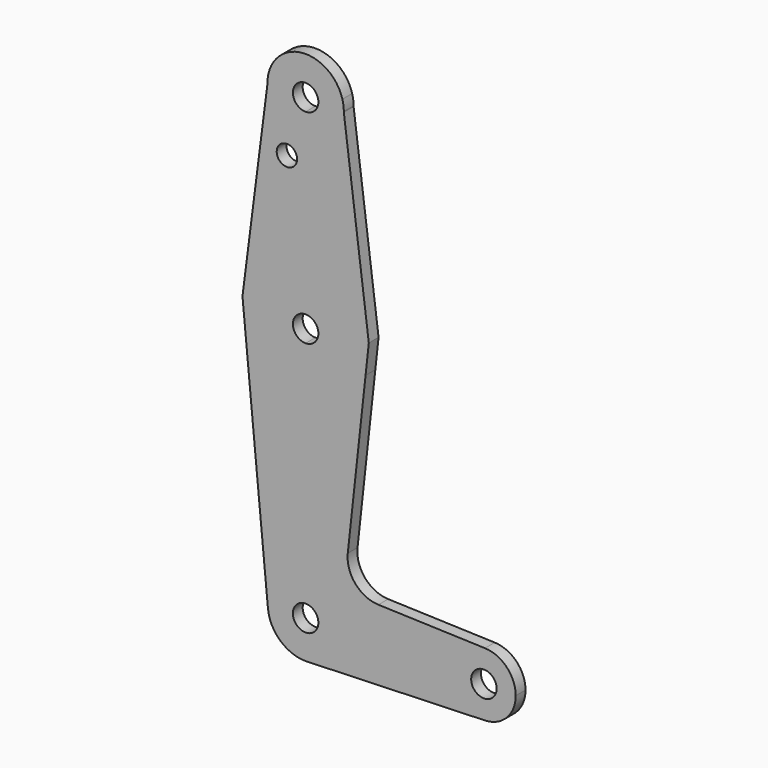
from build123d import *

# Parameters (mm, degrees)
F0_R     = 2.54
F1_DEPTH = 3.048


with BuildPart() as f1:
    # F0 (on Front) → F1 (new body)
    with BuildSketch(Plane.XZ):
        with BuildLine():
            ThreePointArc((-42.1443581445, 65.6977605384), (-39.2914232505, 59.08092793), (-32.6211089313, 56.3553787816))
            ThreePointArc((-32.6211089313, 56.3553787816), (-25.9507946121, 59.08092793), (-23.0978597181, 65.6977605384))
            Line((-23.0978597181, 65.6977605384), (-23.4511180552, 68.456595452))
            ThreePointArc((-23.4511180552, 68.456595452), (-34.0117887591, 75.3033100992), (-42.1443581445, 65.6977605384))
        make_face()
        with BuildLine():
            ThreePointArc((-29.4461089313, 65.8803787816), (-30.376044901, 63.6353147513), (-32.6211089313, 62.7053787816))
            ThreePointArc((-32.6211089313, 62.7053787816), (-34.8661729616, 68.1254428119), (-29.4461089313, 65.8803787816))
        make_face(mode=Mode.SUBTRACT)
        with BuildLine():
            ThreePointArc((-23.0978597181, 65.6977605384), (-25.9507946121, 59.08092793), (-32.6211089313, 56.3553787816))
            Line((-32.6211089313, 56.3553787816), (-32.6211089313, 30.9553787816))
            ThreePointArc((-32.6211089313, 30.9553787816), (-22.1328460742, 26.997256193), (-16.8746720522, 17.0966502448))
            Line((-16.8746720522, 17.0966502448), (-23.0978597181, 65.6977605384))
        make_face()
        with BuildLine():
            Line((-32.6211089313, 30.9553787816), (-32.6211089313, 56.3553787816))
            ThreePointArc((-32.6211089313, 56.3553787816), (-39.2914232505, 59.08092793), (-42.1443581445, 65.6977605384))
            Line((-42.1443581445, 65.6977605384), (-48.3675458104, 17.0966502448))
            ThreePointArc((-48.3675458104, 17.0966502448), (-43.1093717885, 26.997256193), (-32.6211089313, 30.9553787816))
        make_face()
        with Locations((-37.2888706625, 51.6055787816)):
            Circle(F0_R, mode=Mode.SUBTRACT)
        with BuildLine():
            ThreePointArc((-16.8746720522, 17.0966502448), (-22.1328460742, 26.997256193), (-32.6211089313, 30.9553787816))
            Line((-32.6211089313, 30.9553787816), (-32.6211089313, 18.2553787816))
            ThreePointArc((-32.6211089313, 18.2553787816), (-30.376044901, 17.3254428119), (-29.4461089313, 15.0803787816))
            ThreePointArc((-29.4461089313, 15.0803787816), (-30.376044901, 12.8353147513), (-32.6211089313, 11.9053787816))
            Line((-32.6211089313, 11.9053787816), (-32.6211089313, -0.7946212184))
            ThreePointArc((-32.6211089313, -0.7946212184), (-23.4929168915, 2.0922405361), (-17.6846402517, 9.7028767237))
            Line((-17.6846402517, 9.7028767237), (-16.8746720522, 17.0966502448))
        make_face()
        with BuildLine():
            Line((-32.6211089313, 18.2553787816), (-32.6211089313, 30.9553787816))
            ThreePointArc((-32.6211089313, 30.9553787816), (-43.1093717885, 26.997256193), (-48.3675458104, 17.0966502448))
            Line((-48.3675458104, 17.0966502448), (-47.7009565636, 10.1191470405))
            ThreePointArc((-47.7009565636, 10.1191470405), (-41.9285272391, 2.2200681538), (-32.6211089313, -0.7946212184))
            Line((-32.6211089313, -0.7946212184), (-32.6211089313, 11.9053787816))
            ThreePointArc((-32.6211089313, 11.9053787816), (-35.7961089313, 15.0803787816), (-32.6211089313, 18.2553787816))
        make_face()
        with BuildLine():
            Line((-23.4511180552, 68.456595452), (-23.0978597181, 65.6977605384))
            ThreePointArc((-23.0978597181, 65.6977605384), (-23.0965466381, 65.7890654638), (-23.0961089313, 65.8803787816))
            ThreePointArc((-23.0961089313, 65.8803787816), (-23.1852785997, 67.1806598869), (-23.4511180552, 68.456595452))
        make_face()
        with BuildLine():
            Line((-22.1190817772, -30.7768067438), (-17.6846402517, 9.7028767237))
            ThreePointArc((-17.6846402517, 9.7028767237), (-23.4929168915, 2.0922405361), (-32.6211089313, -0.7946212184))
            Line((-32.6211089313, -0.7946212184), (-32.6211089313, -38.9752205832))
            ThreePointArc((-32.6211089313, -38.9752205832), (-25.9429091979, -41.741421485), (-23.1767082961, -48.4196212184))
            Line((-23.1767082961, -48.4196212184), (3.8913910687, -48.4196212184))
            ThreePointArc((3.8913910687, -48.4196212184), (6.3118425433, -42.7129512772), (12.0970179835, -40.4866511436))
            Line((12.0970179835, -40.4866511436), (-14.4847162499, -39.5882135694))
            ThreePointArc((-14.4847162499, -39.5882135694), (-20.2247777383, -36.848527779), (-22.1190817772, -30.7768067438))
        make_face()
        with BuildLine():
            ThreePointArc((-32.6211089313, -0.7946212184), (-41.9285272391, 2.2200681538), (-47.7009565636, 10.1191470405))
            Line((-47.7009565636, 10.1191470405), (-42.0227039741, -49.3177938133))
            ThreePointArc((-42.0227039741, -49.3177938133), (-39.609649737, -42.0669052034), (-32.6211089313, -38.9752205832))
            Line((-32.6211089313, -38.9752205832), (-32.6211089313, -0.7946212184))
        make_face()
        with BuildLine():
            ThreePointArc((-32.6211089313, -38.9752205832), (-39.609649737, -42.0669052034), (-42.0227039741, -49.3177938133))
            ThreePointArc((-42.0227039741, -49.3177938133), (-38.9622943166, -55.4186262383), (-32.5899670381, -57.86397051))
            Line((-32.5899670381, -57.86397051), (-32.0140661705, -57.8444927))
            ThreePointArc((-32.0140661705, -57.8444927), (-25.7316293285, -54.8796346984), (-23.1767082961, -48.4196212184))
            ThreePointArc((-23.1767082961, -48.4196212184), (-25.9429091979, -41.741421485), (-32.6211089313, -38.9752205832))
        make_face()
        with BuildLine():
            ThreePointArc((-32.6211089313, -45.2446212184), (-30.376044901, -46.1745571881), (-29.4461089313, -48.4196212184))
            ThreePointArc((-29.4461089313, -48.4196212184), (-34.8661729616, -50.6646852487), (-32.6211089313, -45.2446212184))
        make_face(mode=Mode.SUBTRACT)
        with BuildLine():
            Line((-32.0140661705, -57.8444927), (-32.5899670381, -57.86397051))
            ThreePointArc((-32.5899670381, -57.86397051), (-32.30186802, -57.8586247993), (-32.0140661705, -57.8444927))
        make_face()
        with BuildLine():
            Line((3.8913910687, -48.4196212184), (-23.1767082961, -48.4196212184))
            ThreePointArc((-23.1767082961, -48.4196212184), (-25.7316293285, -54.8796346984), (-32.0140661705, -57.8444927))
            Line((-32.0140661705, -57.8444927), (12.0971955203, -56.3525852906))
            ThreePointArc((12.0971955203, -56.3525852906), (6.3119064002, -54.126352894), (3.8913910687, -48.4196212184))
        make_face()
        with BuildLine():
            ThreePointArc((19.7663910687, -48.4196212184), (17.5355610099, -42.902572693), (12.0970179835, -40.4866511436))
            ThreePointArc((12.0970179835, -40.4866511436), (6.3118425433, -42.7129512772), (3.8913910687, -48.4196212184))
            ThreePointArc((3.8913910687, -48.4196212184), (6.3119064002, -54.126352894), (12.0971955203, -56.3525852906))
            ThreePointArc((12.0971955203, -56.3525852906), (17.5356227443, -53.9366058869), (19.7663910687, -48.4196212184))
        make_face()
        with BuildLine():
            ThreePointArc((15.0038910687, -48.4196212184), (11.8288910687, -51.5946212184), (8.6538910687, -48.4196212184))
            ThreePointArc((8.6538910687, -48.4196212184), (11.8288910687, -45.2446212184), (15.0038910687, -48.4196212184))
        make_face(mode=Mode.SUBTRACT)
    extrude(amount=F1_DEPTH)


solid = f1.part
